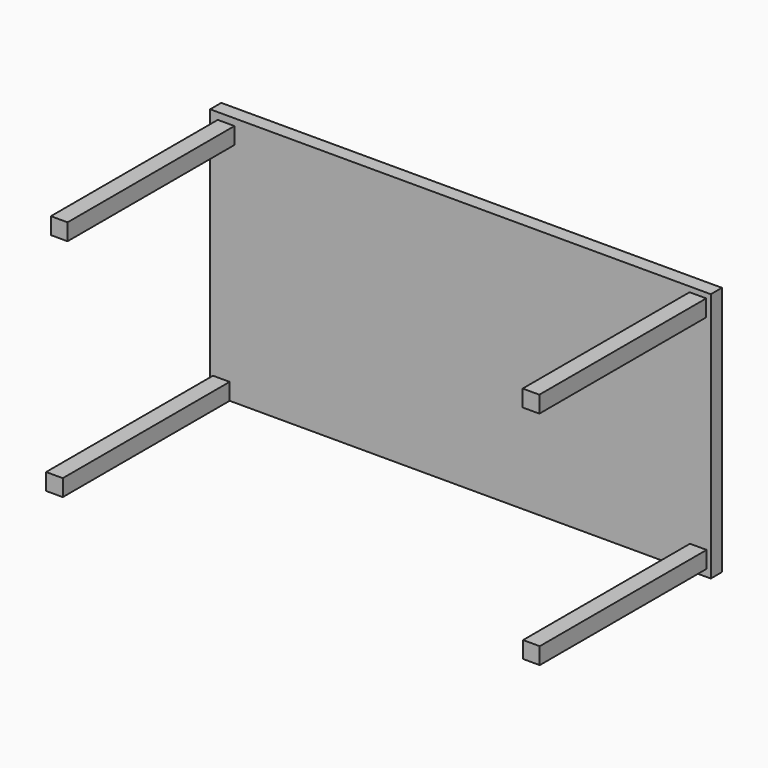
from build123d import *

# Parameters (mm, degrees)
SKETCH_W     = 1800
SKETCH_H     = 900
PAD_DEPTH    = 50
SKETCH001_W  = 60
SKETCH001_H  = 60
PAD001_DEPTH = 750


with BuildPart() as part:
    # Sketch → Pad (new body)
    with BuildSketch(Plane.XZ):
        with Locations((900, 450)):
            Rectangle(SKETCH_W, SKETCH_H)
    extrude(amount=PAD_DEPTH)

    # Sketch001 (on Face6 of Pad) → Pad001 (join)
    with BuildSketch(Plane.XZ.offset(50)):
        with Locations((1755.017945, 55.870171)):
            Rectangle(SKETCH001_W, SKETCH001_H)
        with Locations((1753.631055, 851.470837)):
            Rectangle(SKETCH001_W, SKETCH001_H)
        with Locations((40.092932, 30)):
            Rectangle(SKETCH001_W, SKETCH001_H)
        with Locations((57.324378, 845.378981)):
            Rectangle(SKETCH001_W, SKETCH001_H)
    extrude(amount=PAD001_DEPTH)


solid = part.part
